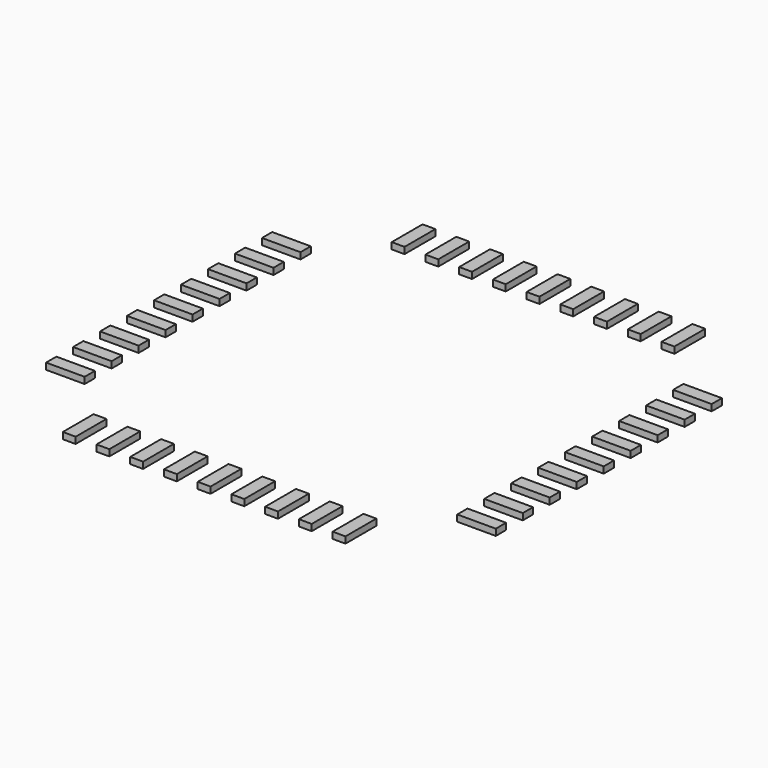
from build123d import *

# Parameters (mm, degrees)
BOX032_W             = 0.2
BOX032_H             = 0.6
BOX032_DEPTH         = 0.1
ARRAY012_X_COUNT     = 9
ARRAY012_X_PITCH     = 0.525
ARRAY012_Y_COUNT     = 2
ARRAY012_Y_PITCH     = 6.4
LINK_PLACEMENT_ANGLE = 90


with BuildPart() as array012:
    # Box032 → Box032 (new body)
    with BuildSketch(Plane(origin=(-2.2, 2.9, 0), x_dir=(1, 0, 0), z_dir=(0, 0, 1))):
        with Locations((0.1, 0.3)):
            Rectangle(BOX032_W, BOX032_H)
    extrude(amount=BOX032_DEPTH)

    # Array012 X: Array012 ×9


with BuildPart() as array012_1:
    add(array012.part)
    with Locations(*[(i * ARRAY012_X_PITCH, 0, 0) for i in range(1, ARRAY012_X_COUNT)]):
        add(array012.part)

    # Array012 Y: Array012 ×2


with BuildPart() as array012_2:
    add(array012_1.part)
    with Locations(*[(0, -i * ARRAY012_Y_PITCH, 0) for i in range(1, ARRAY012_Y_COUNT)]):
        add(array012_1.part)


with BuildPart() as array018:
    # Link base: copy of Array012
    add(array012_2.part)


with BuildPart() as array018_1:
    # Link placement: moved
    add(array018.part.rotate(Axis((0, 0, 0), (0, 0, 1)), LINK_PLACEMENT_ANGLE))


with BuildPart() as pins002:
    # Fusion022 base: copy of Array012
    add(array012_2.part)

    # Fusion022: union Array018
    add(array018_1.part)


solid = pins002.part
